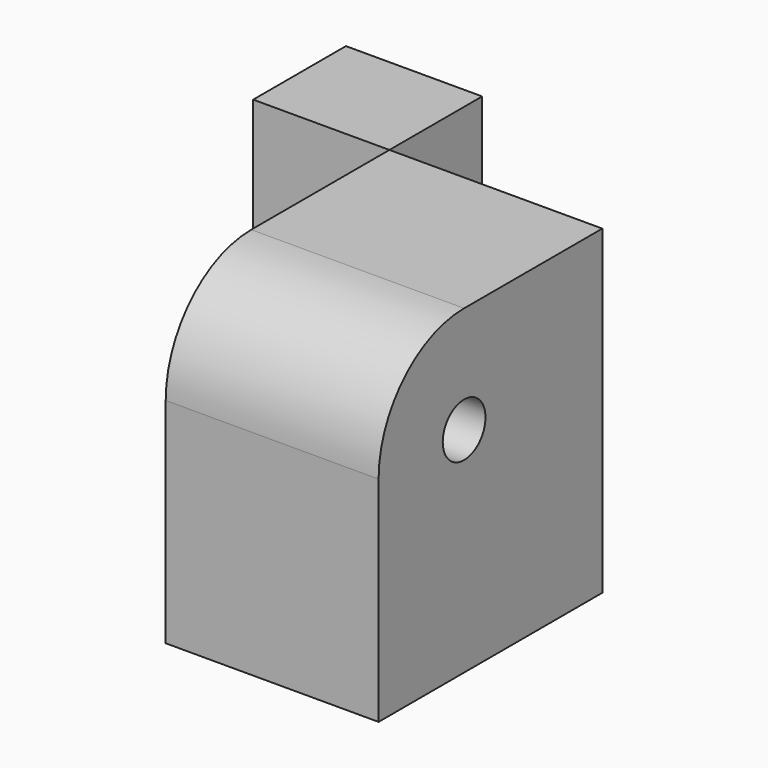
from build123d import *

# Parameters (mm, degrees)
F0_W     = 101.178363
F0_H     = 132.892825
F0_W_2   = 64.745098
F0_H_2   = 55.098824
F1_DEPTH = 152.4
F2_R     = 50.8
F4_D     = 25.4


with BuildPart() as f1:
    # F0 (on Top) → F1 (new body)
    with BuildSketch(Plane.XY):
        with Locations((115.33428, -121.545237)):
            Rectangle(F0_W, F0_H)
        with Locations((115.33428, -121.545237)):
            Rectangle(F0_W, F0_H)
        with Locations((32.372549, -27.549412)):
            Rectangle(F0_W_2, F0_H_2)
    extrude(amount=F1_DEPTH)

    # F2
    f2_edges = [f1.edges().sort_by_distance(p)[0] for p in [
        (115.33428, -187.991649, 152.4),
    ]]
    fillet(f2_edges, radius=F2_R)

    # F4 (through all)
    with Locations(Plane.YZ.offset(165.923461)):
        with Locations((-137.191649, 101.6)):
            Hole(F4_D / 2)


solid = f1.part
